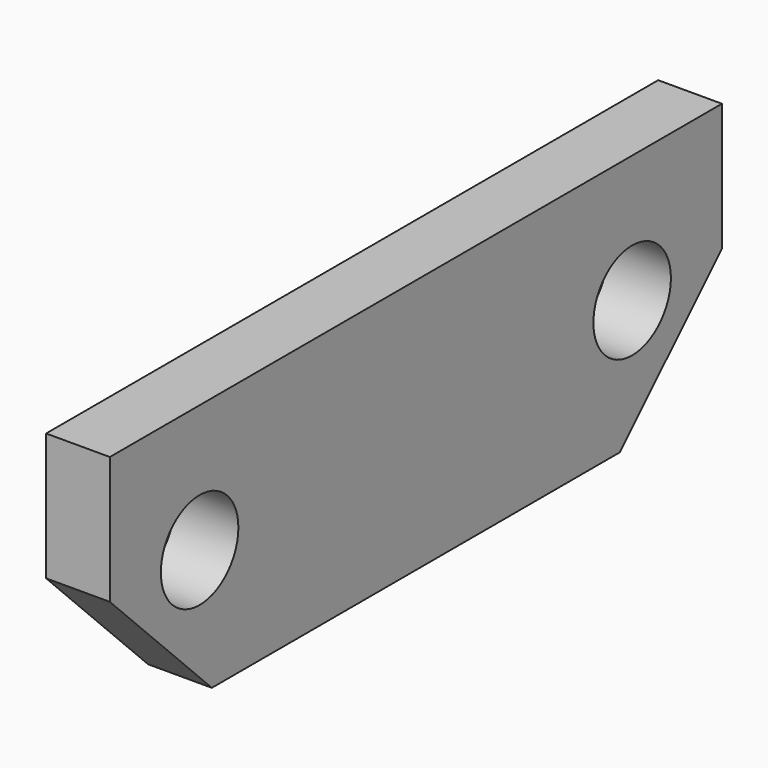
from build123d import *

# Parameters (mm, degrees)
F0_W     = 76.2
F0_H     = 25.4
F0_R     = 4.826
F1_DEPTH = 6.35
F2_SIZE  = 12.7


with BuildPart() as f1:
    # F0 (on Right) → F1 (new body)
    with BuildSketch(Plane.YZ):
        Rectangle(F0_W, F0_H)
        with Locations((-26.924, 0)):
            Circle(F0_R, mode=Mode.SUBTRACT)
        with Locations((26.924, 0)):
            Circle(F0_R, mode=Mode.SUBTRACT)
    extrude(amount=F1_DEPTH)

    # F2
    f2_edges = [f1.edges().sort_by_distance(p)[0] for p in [
        (3.175, -38.1, -12.7),
        (3.175, 38.1, -12.7),
    ]]
    chamfer(f2_edges, length=F2_SIZE)


solid = f1.part
